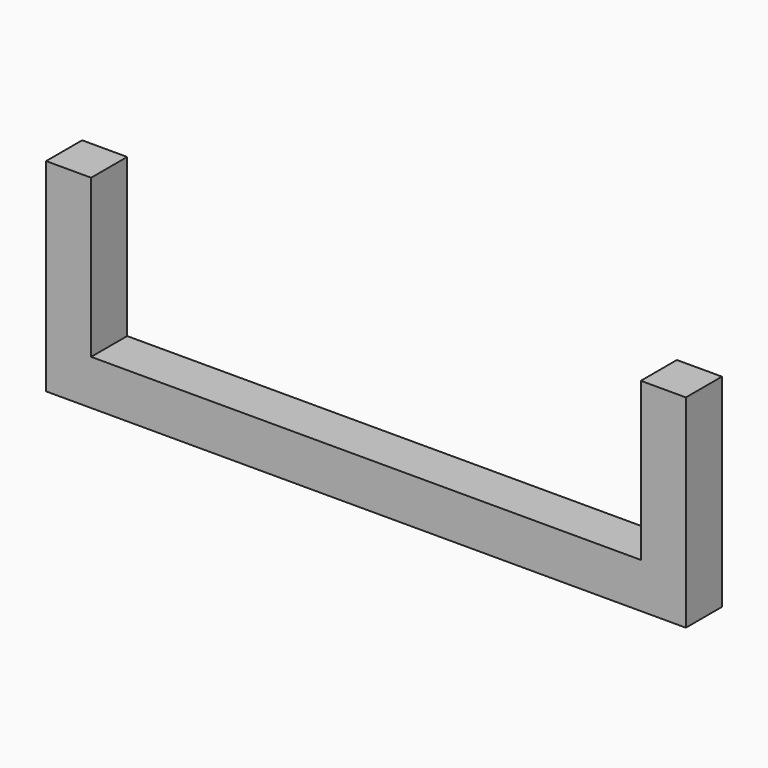
from build123d import *

# Parameters (mm, degrees)
F2_W = 5
F2_H = 5


with BuildPart() as f3:
    # F3: sweep along a path in F0
    with BuildLine(Plane.XZ) as f3_path:
        Line((-33, 10), (-33, -10))
        Line((-33, -10), (33, -10))
        Line((33, -10), (33, 10))
    # F2 (on plane+point) → F3 (sweep)
    with BuildSketch(Plane.XY.offset(10)):
        with Locations((-33, 0)):
            Rectangle(F2_W, F2_H)
    sweep(path=f3_path.line, transition=Transition.RIGHT)


solid = f3.part
